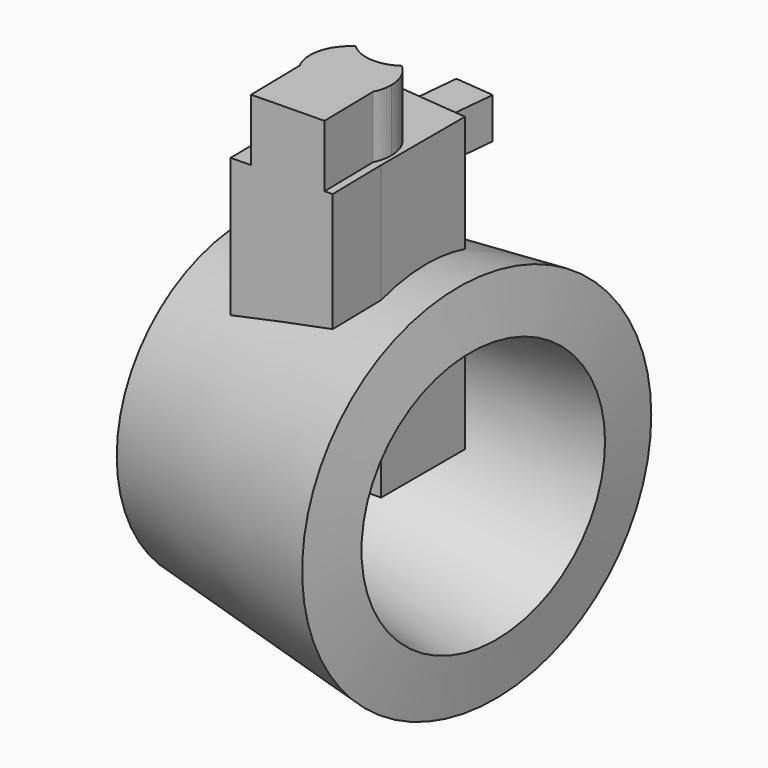
from build123d import *

# Parameters (mm, degrees)
F0_W      = 97.628775984
F0_H      = 23.3006943017
F3_DEPTH  = 118
F5_DEPTH  = 25
F6_W      = 12.4683696777
F6_H      = 23.7819701433
F7_DEPTH  = 25
F6_W_2    = 16.8170528486
F6_H_2    = 20.5661654472
F6_W_3    = 3.8202507421
F6_H_3    = 18.9904868603
F5_FACE_W = 12.4683696777
F5_FACE_H = 23.7819701433
F8_DEPTH  = 25
F9_W      = 15.9168411046
F9_H      = 16.453512013
F10_DEPTH = 25


with BuildPart() as f1:
    # F0 (on Top) → F1 (revolve)
    with BuildSketch(Plane.XY):
        with Locations((23.0226498097, 26.6735097393)):
            Rectangle(F0_W, F0_H)
    revolve(axis=Axis((24.7196350247, -32.6789328828, 0), (0.9918684705, -0.1272671882, 0)))

    # F2 (on Top) → F3 (join)
    with BuildSketch(Plane.XY):
        Polygon((0, -12.5550432131), (0, -59.4090670347), (40.5481569469, -58.6816631258), (40.5481569469, -16.4360441267), align=None)
    extrude(amount=F3_DEPTH)

    # F4 (on face) → F5 (join)
    with BuildSketch(Plane.XY.offset(118)):
        with BuildLine():
            ThreePointArc((38.9660080346, -51.5918619931), (37.4929859335, -44.804908652), (33.3389817945, -39.2392299533))
            ThreePointArc((33.3389817945, -39.2392299533), (23.254398026, -42.045514844), (13.6522556306, -37.8774306208))
            ThreePointArc((13.6522556306, -37.8774306208), (6.7419373602, -47.498950756), (8.1305858475, -59.2632103455))
            Line((8.1305858475, -59.2632103455), (37.3233440131, -58.7395138818))
            ThreePointArc((37.3233440131, -58.7395138818), (38.5500581705, -55.2588523329), (38.9660080346, -51.5918619931))
        make_face()
    extrude(amount=F5_DEPTH)

    # F6 (on face) → F7 (join)
    with BuildSketch(Plane(origin=(1.0654118014, -59.389954336, 0), x_dir=(0.9998391303, 0.0179363736, 0), z_dir=(0.0179363736, -0.9998391303, 0))):
        with Locations((26.5645338222, 119.3591877818)):
            Rectangle(F6_W, F6_H)
    extrude(amount=F7_DEPTH)

    # F6 (on face) + F5_face (on face) → F8 (join)
    with BuildSketch(Plane(origin=(1.0654118014, -59.389954336, 0), x_dir=(0.9998391303, 0.0179363736, 0), z_dir=(0.0179363736, -0.9998391303, 0))):
        with Locations((18.3676513843, 90.3412923217)):
            Rectangle(F6_W_2, F6_H_2)
        with Locations((26.5645338222, 119.3591877818)):
            Rectangle(F6_W, F6_H)
        with Locations((12.6832216047, 116.9634461403)):
            Rectangle(F6_W_3, F6_H_3)
    with BuildSketch(Plane(origin=(20.5226573435, -59.0409057594, 101.9755675833), x_dir=(0.9998391303, 0.0179363736, 0), z_dir=(0.0179363736, -0.9998391303, 0))):
        with BuildLine():
            add(Edge.make_bspline(
                [(-20.5259593482, -39.813077169), (-1.4657323401, -35.8130367899), (20.0287216176, -31.8741575877)],
                knots=[3.4641055883, 3.4641055883, 3.4641055883, 3.5071067631, 3.5071067631, 3.5071067631], degree=2, weights=[1, 0.9997688713, 1]))
            Line((20.0287216176, -31.8741575877), (20.0287216176, 16.0244324167))
            Line((20.0287216176, 16.0244324167), (16.8033898257, 16.0244324167))
            Line((16.8033898257, 16.0244324167), (16.8033898257, 41.0244324167))
            Line((16.8033898257, 41.0244324167), (-12.3940653254, 41.0244324167))
            Line((-12.3940653254, 41.0244324167), (-12.3940653254, 16.0244324167))
            Line((-12.3940653254, 16.0244324167), (-20.5259593482, 16.0244324167))
            Line((-20.5259593482, 16.0244324167), (-20.5259593482, -39.813077169))
        make_face()
        with Locations((7.1041576955, 17.3836201985)):
            Rectangle(F5_FACE_W, F5_FACE_H, mode=Mode.SUBTRACT)
    extrude(amount=F8_DEPTH)

    # F9 (on face) → F10 (join)
    with BuildSketch(Plane(origin=(-1.1907767819, -12.4410699495, 0), x_dir=(-0.9954507085, 0.095277946, 0), z_dir=(0.095277946, 0.9954507085, 0))):
        with Locations((-21.8754792586, 103.7665121257)):
            Rectangle(F9_W, F9_H)
    extrude(amount=F10_DEPTH)


solid = f1.part
